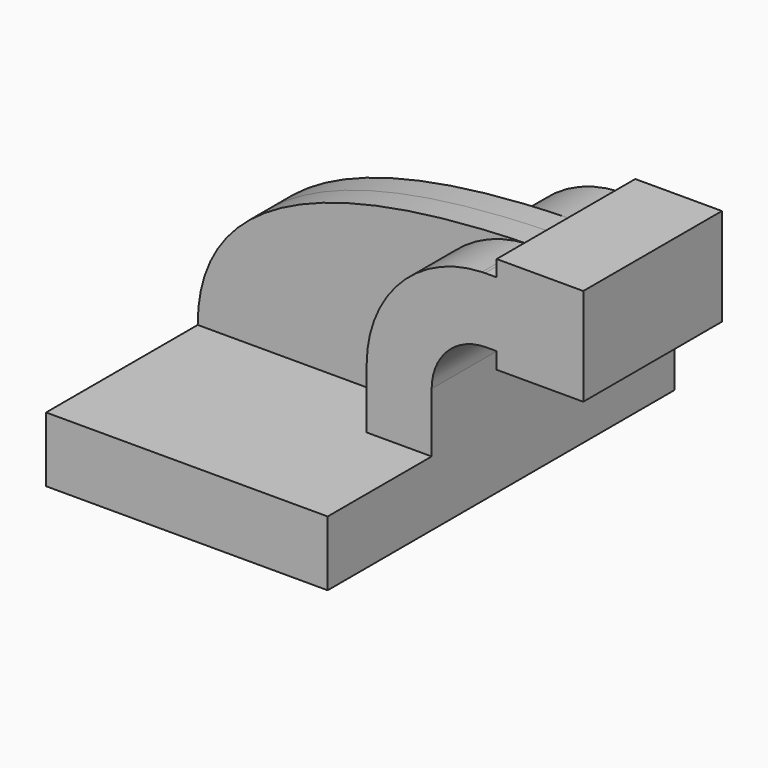
from build123d import *

# Parameters (mm, degrees)
F1_DEPTH = 63.5
F2_DEPTH = 25.4
F3_DEPTH = 7.9375


with BuildPart() as f1:
    # F0 (on Front) → F1 (new body, symmetric)
    with BuildSketch(Plane.XZ):
        Polygon((41.275, -9.525), (41.275, 9.525), (22.225, 9.525), (-41.275, 9.525), (-41.275, -9.525), align=None)
    extrude(amount=F1_DEPTH, both=True)

    # F0 (on Front) → F2 (join, symmetric)
    with BuildSketch(Plane.XZ):
        with BuildLine():
            Line((22.225, 9.525), (41.275, 9.525))
            Line((41.275, 9.525), (41.275, 27.00056))
            ThreePointArc((41.275, 27.00056), (45.88692, 38.187993), (57.043019, 42.8752))
            Line((57.043019, 42.8752), (60.325, 42.897318))
            Line((60.325, 42.897318), (60.325, 61.94775))
            Line((60.325, 61.94775), (56.914641, 61.924767))
            add(Edge.make_bspline(
                [(56.039947, 61.907915), (56.331704, 61.913887), (56.623274, 61.919503), (56.914641, 61.924767)],
                knots=[110.599591, 110.599591, 110.599591, 110.599591, 111.296636, 111.296636, 111.296636, 111.296636], degree=3))
            ThreePointArc((56.039947, 61.907915), (32.064903, 51.300633), (22.225, 27.00056))
            Line((22.225, 27.00056), (22.225, 9.525))
        make_face()
        Polygon((60.325, 42.897318), (60.325, 42.8752), (60.325, 38.1), (85.725, 38.1), (85.725, 66.675), (60.325, 66.675), (60.325, 61.94775), align=None)
    extrude(amount=F2_DEPTH, both=True)

    # F0 (on Front) → F3 (join, symmetric)
    with BuildSketch(Plane.XZ):
        with BuildLine():
            Line((-41.275, 9.525), (22.225, 9.525))
            Line((22.225, 9.525), (22.225, 27.00056))
            ThreePointArc((22.225, 27.00056), (32.064903, 51.300633), (56.039947, 61.907915))
            add(Edge.make_bspline(
                [(-41.275, 9.525), (-41.269693, 51.029399), (9.747121, 60.960284), (56.039947, 61.907915)],
                knots=[0, 0, 0, 0, 110.599591, 110.599591, 110.599591, 110.599591], degree=3))
        make_face()
    extrude(amount=F3_DEPTH, both=True)


solid = f1.part
